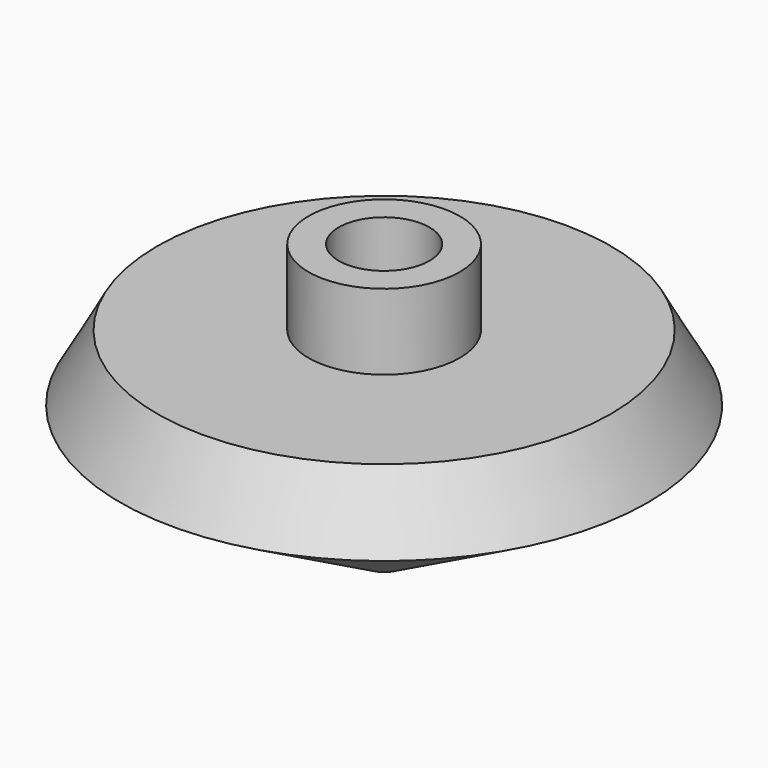
from build123d import *

# Parameters (mm, degrees)
F2_R     = 3.81
F3_DEPTH = 9.525
F4_R     = 1.5875
F5_DEPTH = 12.7


with BuildPart() as f1:
    # F0 (on Front) → F1 (revolve)
    with BuildSketch(Plane.XZ):
        Polygon((0, 24.310512), (0, 0), (22.155415, 12.421659), (19.05, 17.960512), (6.35, 17.960512), (6.35, 24.310512), align=None)
    revolve(axis=Axis((0, 0, 12.155256), (0, 0, -1)))

    # F2 (on face) → F3 (cut)
    with BuildSketch(Plane.XY.offset(24.310512)):
        Circle(F2_R)
    extrude(amount=-F3_DEPTH, mode=Mode.SUBTRACT)

    # F4 (on Top) → F5 (cut)
    with BuildSketch(Plane.XY):
        Circle(F4_R)
    extrude(amount=F5_DEPTH, mode=Mode.SUBTRACT)


solid = f1.part
